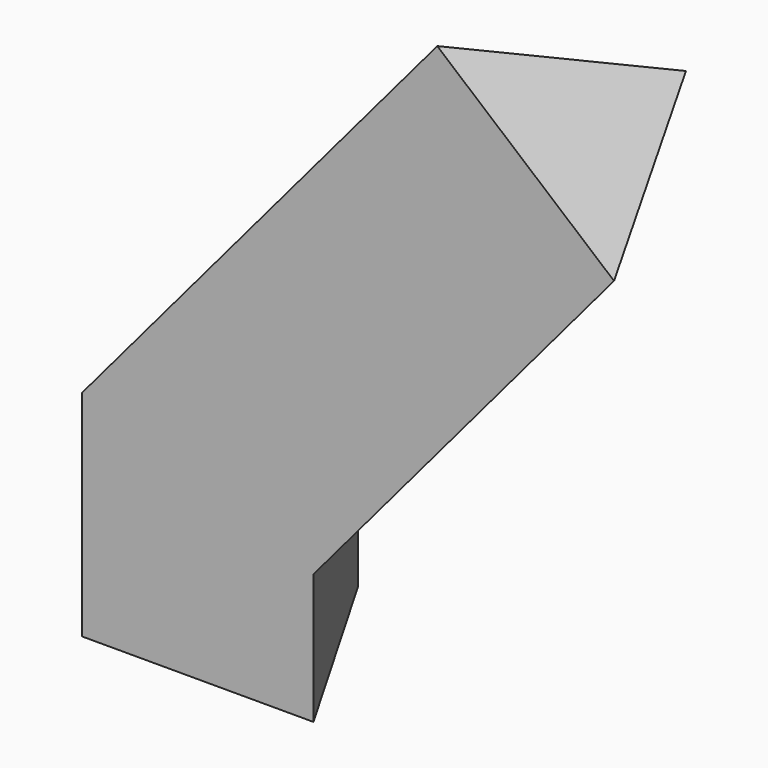
from build123d import *


with BuildPart() as f2:
    # F2: sweep along a path in F1
    with BuildLine(Plane.XZ) as f2_path:
        Line((0, 0), (0, 104.7316268086))
        Line((0, 104.7316268086), (199.3743181229, 340.8595025539))
    # F0 (on Top) → F2 (sweep)
    with BuildSketch(Plane.XY):
        Polygon((-70.3336996853, -40.6071804464), (70.3336996853, -40.6071804464), (0, 81.2143608928), align=None)
    sweep(path=f2_path.line, transition=Transition.RIGHT)


solid = f2.part
